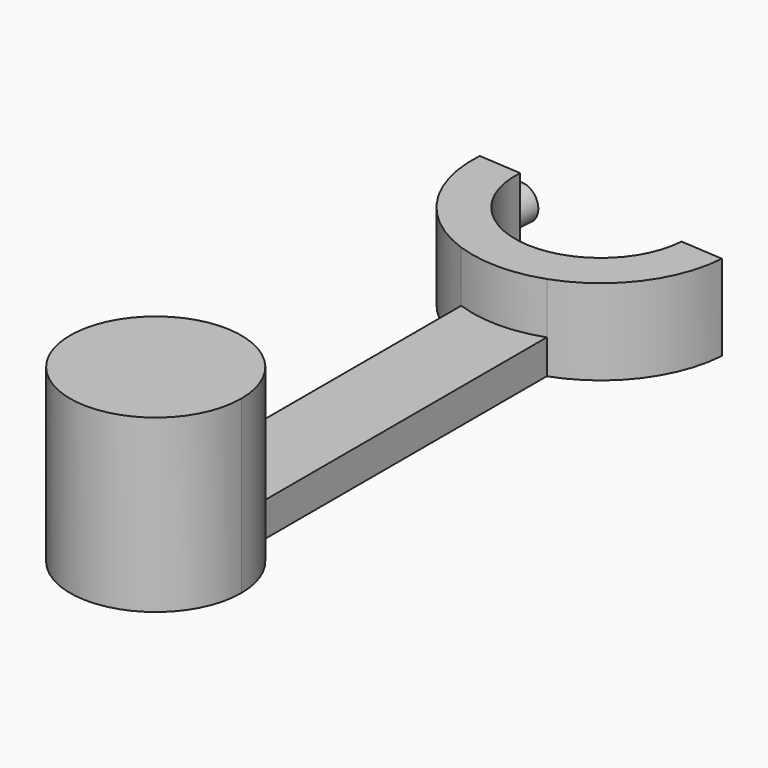
from build123d import *

# Parameters (mm, degrees)
F1_DEPTH = 12.7
F2_DEPTH = 5.08
F3_DEPTH = 25.4
F4_R     = 2.54
F5_DEPTH = 3.81


with BuildPart() as f1:
    # F0 (on Top) → F1 (new body)
    with BuildSketch(Plane.XY):
        with BuildLine():
            Line((-12.7, 29.4087881439), (-12.7, 22.4467985298))
            ThreePointArc((-12.7, 22.4467985298), (-6.35, 21.3573107719), (0, 22.4467985298))
            Line((0, 22.4467985298), (0, 29.4087881439))
            ThreePointArc((0, 29.4087881439), (-6.35, 27.7073107719), (-12.7, 29.4087881439))
        make_face()
        with BuildLine():
            ThreePointArc((-25.3555783398, 41.7074999772), (-22.2707409783, 29.9463114553), (-12.7, 22.4467985298))
            Line((-12.7, 22.4467985298), (-12.7, 29.4087881439))
            ThreePointArc((-12.7, 29.4087881439), (-17.5589336819, 34.4365649462), (-19.0203855599, 41.2741035754))
            Line((-19.0203855599, 41.2741035754), (-25.3555783398, 41.7074999772))
        make_face()
        with BuildLine():
            Line((0, 29.4087881439), (0, 22.4467985298))
            ThreePointArc((0, 22.4467985298), (8.8196383991, 28.8840920011), (12.6555783398, 39.1071215667))
            Line((12.6555783398, 39.1071215667), (6.3203855599, 39.5405179684))
            ThreePointArc((6.3203855599, 39.5405179684), (4.4252844056, 33.685462367), (0, 29.4087881439))
        make_face()
    extrude(amount=F1_DEPTH)

    # F0 (on Top) → F2 (join)
    with BuildSketch(Plane.XY):
        with BuildLine():
            Line((-12.7, 22.4467985298), (-12.7, -31.1441666))
            ThreePointArc((-12.7, -31.1441666), (-6.35, -29.4426892281), (0, -31.1441666))
            Line((0, -31.1441666), (0, 22.4467985298))
            ThreePointArc((0, 22.4467985298), (-6.35, 21.3573107719), (-12.7, 22.4467985298))
        make_face()
    extrude(amount=F2_DEPTH)

    # F0 (on Top) → F3 (join)
    with BuildSketch(Plane.XY):
        with BuildLine():
            Line((-12.7, -31.1441666), (-12.7, -42.1426892281))
            Line((-12.7, -42.1426892281), (-6.35, -42.1426892281))
            Line((-6.35, -42.1426892281), (0, -42.1426892281))
            Line((0, -42.1426892281), (0, -31.1441666))
            ThreePointArc((0, -31.1441666), (-6.35, -29.4426892281), (-12.7, -31.1441666))
        make_face()
        with BuildLine():
            Line((-6.35, -42.1426892281), (-12.7, -42.1426892281))
            Line((-12.7, -42.1426892281), (-12.7, -31.1441666))
            ThreePointArc((-12.7, -31.1441666), (-12.7, -53.1412118561), (6.35, -42.1426892281))
            ThreePointArc((6.35, -42.1426892281), (4.6485226281, -35.7926892281), (0, -31.1441666))
            Line((0, -31.1441666), (0, -42.1426892281))
            Line((0, -42.1426892281), (-6.35, -42.1426892281))
        make_face()
    extrude(amount=F3_DEPTH)

    # F4 (on face) → F5 (join)
    with BuildSketch(Plane(origin=(2.7218447995, 39.7866974726, 0), x_dir=(-0.9976681543, 0.0682514019, 0), z_dir=(0.0682514019, 0.9976681543, 0))):
        with Locations((24.9680483851, 6.35)):
            Circle(F4_R)
    extrude(amount=F5_DEPTH)


solid = f1.part
